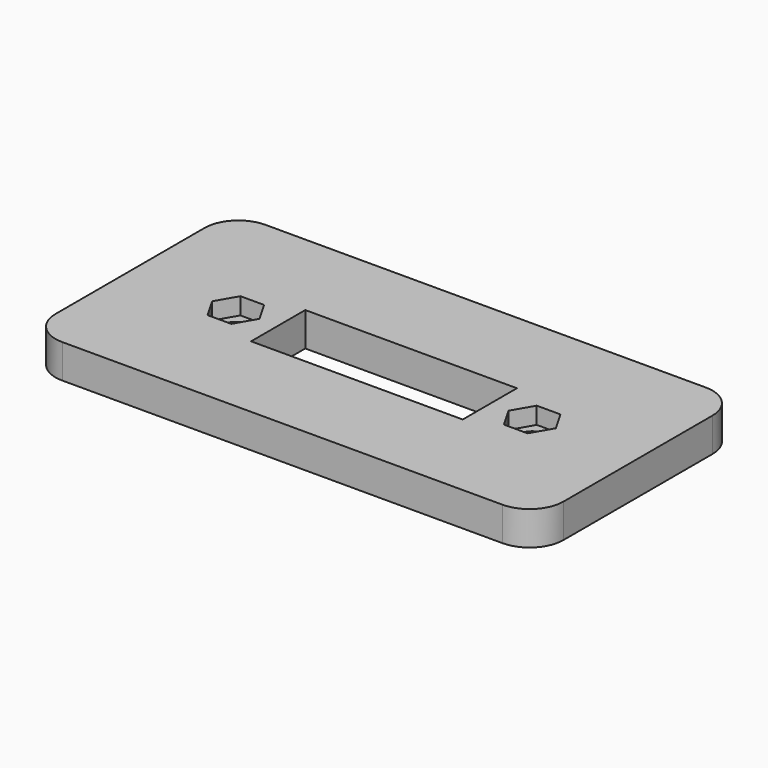
from build123d import *

# Parameters (mm, degrees)
F0_W     = 76.2
F0_H     = 38.1
F1_DEPTH = 5.08
F2_W     = 31.75
F2_H     = 10.16
F3_DEPTH = 5.08
F4_R     = 1.905
F5_DEPTH = 5.08
F7_DEPTH = 2.54
F8_R     = 5.08


with BuildPart() as f1:
    # F0 (on Top) → F1 (new body)
    with BuildSketch(Plane.XY):
        Rectangle(F0_W, F0_H)
    extrude(amount=F1_DEPTH)

    # F2 (on face) → F3 (cut, through all)
    with BuildSketch(Plane.XY.offset(5.08)):
        Rectangle(F2_W, F2_H)
    extrude(amount=-F3_DEPTH, mode=Mode.SUBTRACT)

    # F4 (on face) → F5 (cut, through all)
    with BuildSketch(Plane.XY.offset(5.08)):
        with Locations((-22.225, 0)):
            Circle(F4_R)
        with BuildLine():
            ThreePointArc((24.13, 0), (22.225, 1.905), (20.32, 0))
            ThreePointArc((20.32, 0), (22.225, -1.905), (24.13, 0))
        make_face()
    extrude(amount=-F5_DEPTH, mode=Mode.SUBTRACT)

    # F6 (on face) → F7 (cut)
    with BuildSketch(Plane.XY.offset(5.08)):
        Polygon((-18.669, 0), (-20.447, 3.079586), (-24.003, 3.079586), (-25.781, 0), (-24.003, -3.079586), (-20.447, -3.079586), align=None)
        Polygon((25.781, 0), (24.003, 3.079586), (20.447, 3.079586), (18.669, 0), (20.447, -3.079586), (24.003, -3.079586), align=None)
    extrude(amount=-F7_DEPTH, mode=Mode.SUBTRACT)

    # F8
    f8_edges = [f1.edges().sort_by_distance(p)[0] for p in [
        (38.1, -19.05, 2.54),
        (38.1, 19.05, 2.54),
        (-38.1, 19.05, 2.54),
        (-38.1, -19.05, 2.54),
    ]]
    fillet(f8_edges, radius=F8_R)


solid = f1.part
